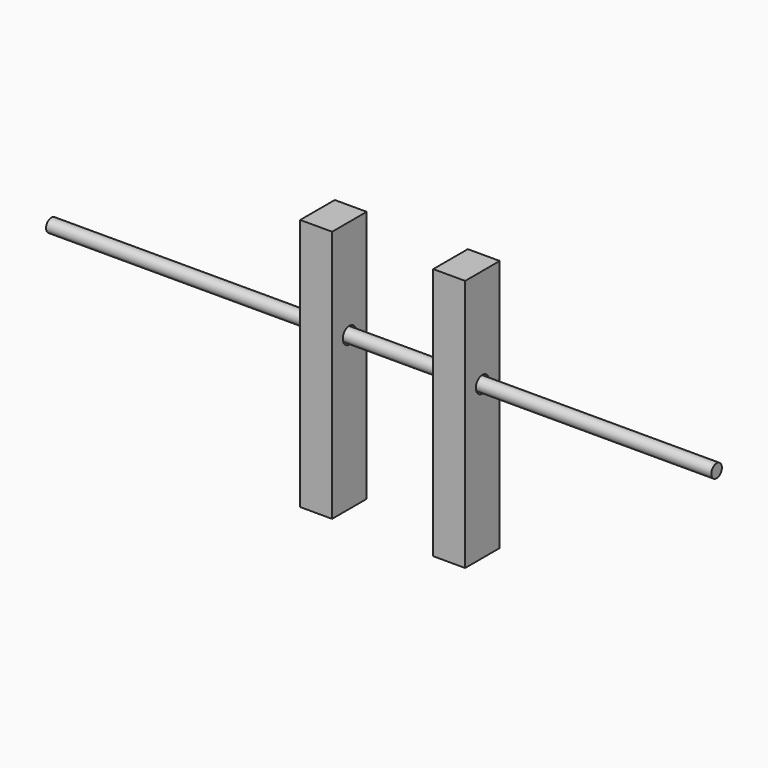
from build123d import *

# Parameters (mm, degrees)
CYLINDER003_R     = 2.5
CYLINDER003_DEPTH = 9.6
BOX006_W          = 9.6
BOX006_H          = 13
BOX006_DEPTH      = 76
CYLINDER001_R     = 2
CYLINDER001_DEPTH = 200
CYLINDER002_R     = 2.5
CYLINDER002_DEPTH = 9.6
BOX005_W          = 9.6
BOX005_H          = 13
BOX005_DEPTH      = 76


with BuildPart() as cylinder003:
    # Cylinder003 → Cylinder003 (new body)
    with BuildSketch(Plane(origin=(0, 6.5, 46), x_dir=(0, 0, -1), z_dir=(1, 0, 0))):
        Circle(CYLINDER003_R)
    extrude(amount=CYLINDER003_DEPTH)


with BuildPart() as clamp2:
    # Box006 → Box006 (new body)
    with BuildSketch(Plane.XY):
        with Locations((4.8, 6.5)):
            Rectangle(BOX006_W, BOX006_H)
    extrude(amount=BOX006_DEPTH)

    # Cut005: cut Cylinder003
    add(cylinder003.part, mode=Mode.SUBTRACT)


with BuildPart() as clamp2_1:
    # Cut005 placement: moved
    add(clamp2.part.moved(Location((110, 23.5, -6))))


with BuildPart() as cylinder001:
    # Cylinder001 → Cylinder001 (new body)
    with BuildSketch(Plane(origin=(-10, 30, 40), x_dir=(0, 0, -1), z_dir=(1, 0, 0))):
        Circle(CYLINDER001_R)
    extrude(amount=CYLINDER001_DEPTH)


with BuildPart() as cylinder002:
    # Cylinder002 → Cylinder002 (new body)
    with BuildSketch(Plane(origin=(0, 6.5, 46), x_dir=(0, 0, -1), z_dir=(1, 0, 0))):
        Circle(CYLINDER002_R)
    extrude(amount=CYLINDER002_DEPTH)


with BuildPart() as clamps:
    # Box005 → Box005 (new body)
    with BuildSketch(Plane.XY):
        with Locations((4.8, 6.5)):
            Rectangle(BOX005_W, BOX005_H)
    extrude(amount=BOX005_DEPTH)

    # Cut004: cut Cylinder002
    add(cylinder002.part, mode=Mode.SUBTRACT)


with BuildPart() as clamps_1:
    # Cut004 placement: moved
    add(clamps.part.moved(Location((70, 23.5, -6))))

    # Fusion: union Clamp2, Cylinder001
    add(clamp2_1.part)
    add(cylinder001.part)


solid = clamps_1.part
